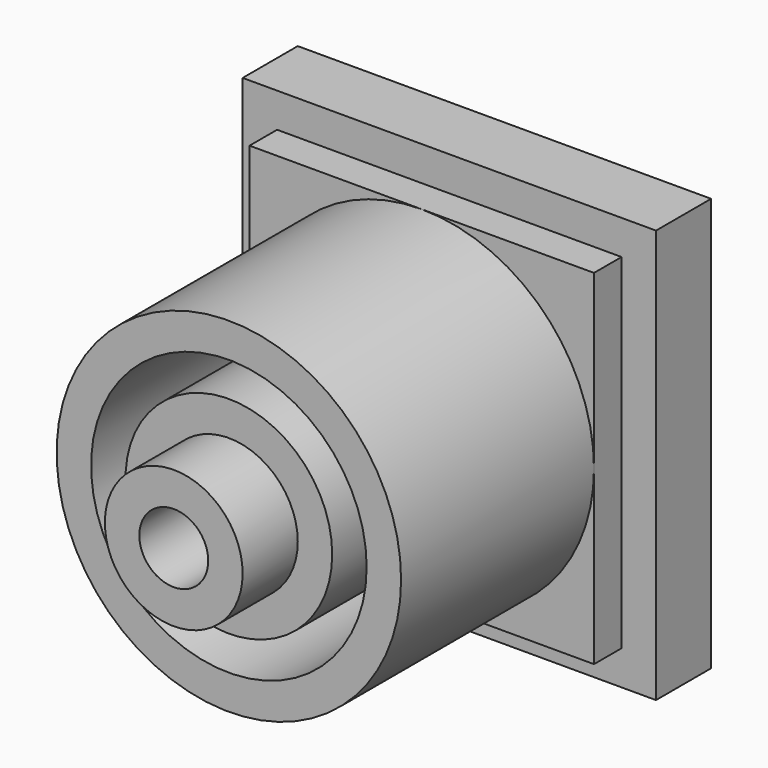
from build123d import *

# Parameters (mm, degrees)
F0_R      = 63.5
F0_R_2    = 38.1
F1_DEPTH  = 12.7
F2_R      = 38.1
F2_R_2    = 25.4
F3_DEPTH  = 127
F4_R      = 25.4
F4_R_2    = 12.7
F5_DEPTH  = 152.4
F6_R      = 63.5
F6_R_2    = 50.8
F7_DEPTH  = 127
F8_W      = 152.4
F8_H      = 152.4
F9_DEPTH  = 25.4
F11_DEPTH = 12.7


with BuildPart() as f1:
    # F0 (on Front) → F1 (new body)
    with BuildSketch(Plane.XZ):
        Circle(F0_R)
        Circle(F0_R_2, mode=Mode.SUBTRACT)
    extrude(amount=F1_DEPTH)

    # F2 (on Front) → F3 (join)
    with BuildSketch(Plane.XZ):
        Circle(F2_R)
        Circle(F2_R_2, mode=Mode.SUBTRACT)
    extrude(amount=F3_DEPTH)

    # F4 (on Front) → F5 (join)
    with BuildSketch(Plane.XZ):
        Circle(F4_R)
        Circle(F4_R_2, mode=Mode.SUBTRACT)
    extrude(amount=F5_DEPTH)

    # F6 (on Front) → F7 (join)
    with BuildSketch(Plane.XZ):
        Circle(F6_R)
        Circle(F6_R_2, mode=Mode.SUBTRACT)
    extrude(amount=F7_DEPTH)

    # F8 (on Front) → F9 (join)
    with BuildSketch(Plane.XZ):
        Rectangle(F8_W, F8_H)
    extrude(amount=F9_DEPTH)

    # F10 (on face) → F11 (join)
    with BuildSketch(Plane.XZ.offset(25.4)):
        with BuildLine():
            Line((1.088e-07, 63.5), (-63.5, 63.5))
            Line((-63.5, 63.5), (-63.5, 0))
            ThreePointArc((-63.5, 0), (-44.9012805669, 44.9012806438), (1.088e-07, 63.5))
        make_face()
        with BuildLine():
            ThreePointArc((-4.16e-08, -63.5), (-44.90128062, -44.9012805906), (-63.5, 0))
            Line((-63.5, 0), (-63.5, -63.5))
            Line((-63.5, -63.5), (-4.16e-08, -63.5))
        make_face()
        with BuildLine():
            Line((63.5, 63.5), (1.088e-07, 63.5))
            ThreePointArc((1.088e-07, 63.5), (44.9012806438, 44.9012805669), (63.5, 0))
            Line((63.5, 0), (63.5, 63.5))
        make_face()
        with BuildLine():
            Line((63.5, -63.5), (63.5, 0))
            ThreePointArc((63.5, 0), (44.9012805906, -44.90128062), (-4.16e-08, -63.5))
            Line((-4.16e-08, -63.5), (63.5, -63.5))
        make_face()
    extrude(amount=F11_DEPTH)


solid = f1.part
